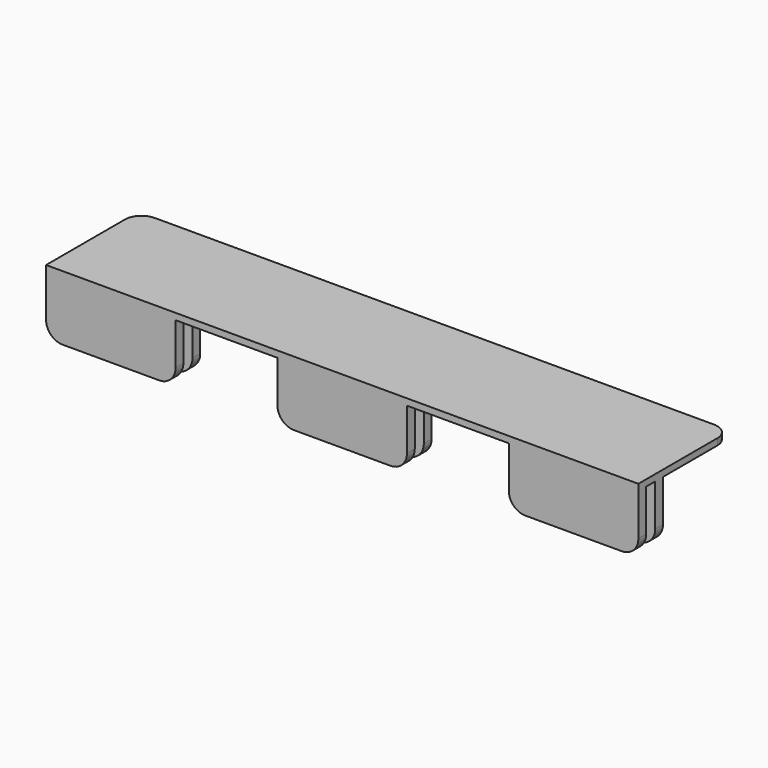
from build123d import *

# Parameters (mm, degrees)
F0_W     = 20
F0_H     = 1.5
F0_W_2   = 15.72
F1_DEPTH = 1
F2_DEPTH = 9
F3_R     = 2.54
F4_R     = 2.54


with BuildPart() as f1:
    # F0 (on Top) → F1 (new body)
    with BuildSketch(Plane.XY):
        Polygon((25.72, 4.75), (45.72, 4.75), (45.72, 17.78), (0, 17.78), (-45.72, 17.78), (-45.72, 4.75), (-25.72, 4.75), (-10, 4.75), (0, 4.75), (10, 4.75), align=None)
        with Locations((35.72, 4)):
            Rectangle(F0_W, F0_H)
        with Locations((17.86, 4)):
            Rectangle(F0_W_2, F0_H)
        Polygon((0, 3.25), (10, 3.25), (10, 4.75), (0, 4.75), (-10, 4.75), (-10, 3.25), align=None)
        Polygon((0, 1.5), (10, 1.5), (25.72, 1.5), (45.72, 1.5), (45.72, 3.25), (25.72, 3.25), (10, 3.25), (0, 3.25), (-10, 3.25), (-25.72, 3.25), (-45.72, 3.25), (-45.72, 1.5), (-25.72, 1.5), (-10, 1.5), align=None)
        Polygon((-10, 0), (0, 0), (10, 0), (10, 1.5), (0, 1.5), (-10, 1.5), align=None)
        with Locations((17.86, 0.75)):
            Rectangle(F0_W_2, F0_H)
        with Locations((35.72, 0.75)):
            Rectangle(F0_W, F0_H)
        with Locations((-35.72, 4)):
            Rectangle(F0_W, F0_H)
        with Locations((-35.72, 0.75)):
            Rectangle(F0_W, F0_H)
        with Locations((17.86, 4)):
            Rectangle(F0_W_2, F0_H)
        with Locations((17.86, 0.75)):
            Rectangle(F0_W_2, F0_H)
        with Locations((-17.86, 0.75)):
            Rectangle(F0_W_2, F0_H)
        with Locations((-17.86, 4)):
            Rectangle(F0_W_2, F0_H)
        Polygon((0, 3.25), (10, 3.25), (10, 4.75), (0, 4.75), (-10, 4.75), (-10, 3.25), align=None)
        Polygon((-10, 0), (0, 0), (10, 0), (10, 1.5), (0, 1.5), (-10, 1.5), align=None)
    extrude(amount=F1_DEPTH)

    # F0 (on Top) → F2 (join)
    with BuildSketch(Plane.XY):
        with Locations((35.72, 0.75)):
            Rectangle(F0_W, F0_H)
        with Locations((35.72, 4)):
            Rectangle(F0_W, F0_H)
        with Locations((-35.72, 4)):
            Rectangle(F0_W, F0_H)
        with Locations((-35.72, 0.75)):
            Rectangle(F0_W, F0_H)
        Polygon((0, 3.25), (10, 3.25), (10, 4.75), (0, 4.75), (-10, 4.75), (-10, 3.25), align=None)
        Polygon((-10, 0), (0, 0), (10, 0), (10, 1.5), (0, 1.5), (-10, 1.5), align=None)
    extrude(amount=-F2_DEPTH)

    # F3
    f3_edges = [f1.edges().sort_by_distance(p)[0] for p in [
        (45.72, 17.78, 0.5),
        (-45.72, 17.78, 0.5),
    ]]
    fillet(f3_edges, radius=F3_R)

    # F4
    f4_edges = [f1.edges().sort_by_distance(p)[0] for p in [
        (-45.72, 0.75, -9),
        (-45.72, 4, -9),
        (45.72, 0.75, -9),
        (45.72, 4, -9),
        (-25.72, 0.75, -9),
        (-25.72, 4, -9),
        (-10, 4, -9),
        (-10, 0.75, -9),
        (10, 0.75, -9),
        (10, 4, -9),
        (25.72, 4, -9),
        (25.72, 0.75, -9),
    ]]
    fillet(f4_edges, radius=F4_R)


solid = f1.part
